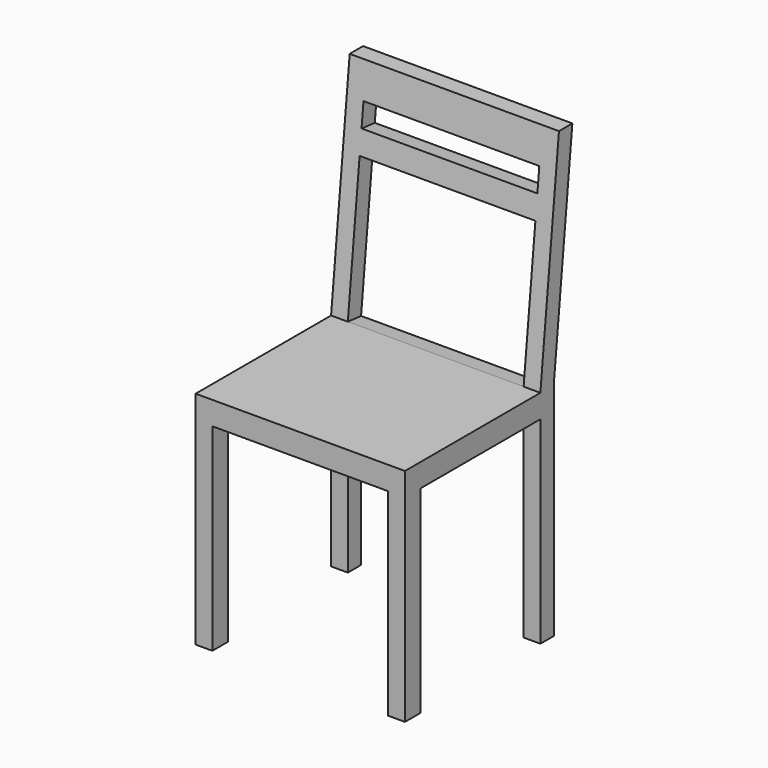
from build123d import *

# Parameters (mm, degrees)
F0_W     = 450
F0_H     = 450
F1_DEPTH = 950
F2_W     = 50
F2_H     = 50
F2_W_2   = 321.6566308737
F2_H_2   = 425
F3_DEPTH = 450.001
F4_W     = 378
F4_H     = 425
F5_DEPTH = 450.001
F6_W     = 378
F6_H     = 50
F6_H_2   = 302.6243293636
F7_DEPTH = 135.2537415973


with BuildPart() as f1:
    # F0 (on Top) → F1 (new body)
    with BuildSketch(Plane.XY):
        Rectangle(F0_W, F0_H)
    extrude(amount=F1_DEPTH)

    # F2 (on face) → F3 (cut, through all)
    with BuildSketch(Plane.YZ.offset(225)):
        with Locations((200, 450)):
            Rectangle(F2_W, F2_H)
        Polygon((-182.6566308737, 475), (139, 475), (189, 950), (-225, 950), (-225, 475), align=None)
        with Locations((-21.8283154368, 212.5)):
            Rectangle(F2_W_2, F2_H_2)
        with Locations((200, 212.5)):
            Rectangle(F2_W, F2_H_2)
        Polygon((175, 475), (225, 475), (225, 950), align=None)
    extrude(amount=-F3_DEPTH, mode=Mode.SUBTRACT)

    # F4 (on face) → F5 (cut, through all)
    with BuildSketch(Plane.XZ.offset(225)):
        with Locations((0, 212.5)):
            Rectangle(F4_W, F4_H)
    extrude(amount=-F5_DEPTH, mode=Mode.SUBTRACT)

    # F6 (on face) → F7 (cut, through all)
    with BuildSketch(Plane(origin=(0, 88.0246575342, -9.2657534247), x_dir=(1, 0, 0), z_dir=(0, -0.9945054529, 0.1046847845))):
        with Locations((0, 864.5656045492)):
            Rectangle(F6_W, F6_H)
        with Locations((0, 638.2534398675)):
            Rectangle(F6_W, F6_H_2)
    extrude(amount=-F7_DEPTH, mode=Mode.SUBTRACT)


solid = f1.part
